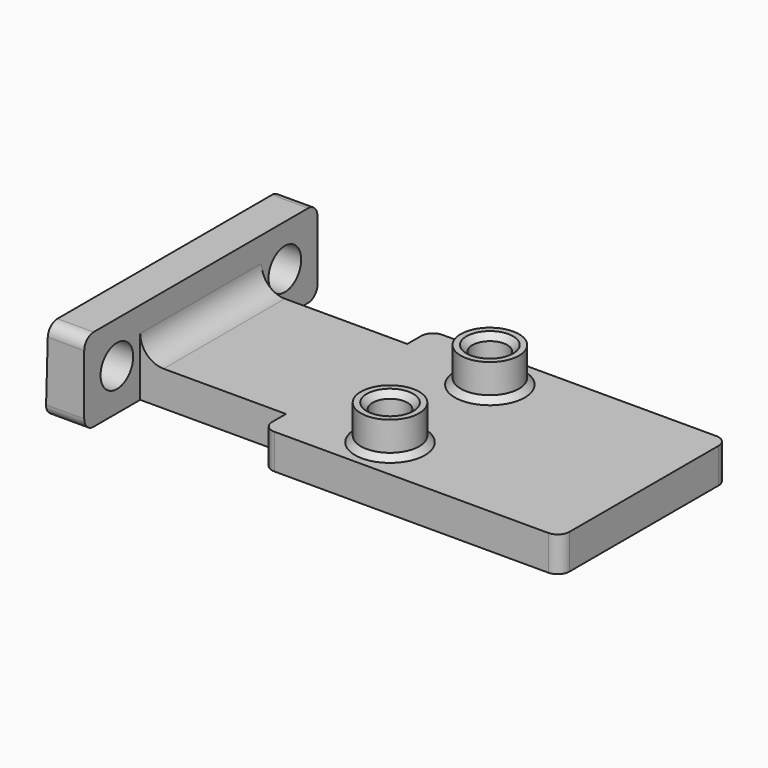
from build123d import *

# Parameters (mm, degrees)
PAD006_DEPTH    = 7.15
SKETCH012_W     = 38
SKETCH012_H     = 18
POCKET004_DEPTH = 4.15
SKETCH013_R     = 2.5
PAD007_DEPTH    = 3
SKETCH014_R     = 1.5
POCKET005_DEPTH = 6.001
SKETCH016_W     = 12.5
SKETCH016_H     = 2.5
POCKET006_DEPTH = 5
SKETCH017_R     = 1.75
POCKET007_DEPTH = 5
CHAMFER_SIZE    = 0.5
CHAMFER001_SIZE = 0.5
POCKET008_DEPTH = 25.001
FILLET_R        = 2
FILLET001_R     = 1
FILLET002_R     = 1


with BuildPart() as part:
    # Sketch011 (on XY_Plane001 of Origin002) → Pad006 (new body)
    with BuildSketch(Plane.XY):
        Polygon((-9.418493, -9), (28.581507, -9), (28.581507, 9), (-9.418493, 9), (-9.418493, 12.5), (-12.718493, 12.5), (-12.718493, -12.5), (-9.418493, -12.5), align=None)
    extrude(amount=PAD006_DEPTH)

    # Sketch012 (on Face10 of Pad006) → Pocket004 (cut)
    with BuildSketch(Plane.XY.offset(7.15)):
        with Locations((9.581507, 0)):
            Rectangle(SKETCH012_W, SKETCH012_H)
    extrude(amount=-POCKET004_DEPTH, mode=Mode.SUBTRACT)

    # Sketch013 (on Face4 of Pocket004) → Pad007 (join)
    with BuildSketch(Plane.XY.offset(3)):
        with Locations((11.081507, 5.35)):
            Circle(SKETCH013_R)
        with Locations((11.081507, -5.35)):
            Circle(SKETCH013_R)
    extrude(amount=PAD007_DEPTH)

    # Sketch014 (on Face13 of Pad007) → Pocket005 (cut, through all)
    with BuildSketch(Plane.XY.offset(6)):
        with Locations((11.081507, 5.35)):
            Circle(SKETCH014_R)
        with Locations((11.081507, -5.35)):
            Circle(SKETCH014_R)
    extrude(amount=-POCKET005_DEPTH, mode=Mode.SUBTRACT)

    # Sketch016 (on Face4 of Pocket005) → Pocket006 (cut)
    with BuildSketch(Plane.XY.offset(3)):
        with Locations((-3.168493, 7.75)):
            Rectangle(SKETCH016_W, SKETCH016_H)
        with Locations((-3.168493, -7.75)):
            Rectangle(SKETCH016_W, SKETCH016_H)
    extrude(amount=-POCKET006_DEPTH, mode=Mode.SUBTRACT)

    # Sketch017 (on Face7 of Pocket006) → Pocket007 (cut)
    with BuildSketch(Plane(origin=(-12.718493, 0, 0), x_dir=(0, -1, 0), z_dir=(-1, 0, 0))):
        with Locations((-9, 3.575)):
            Circle(SKETCH017_R)
        with Locations((9, 3.575)):
            Circle(SKETCH017_R)
    extrude(amount=-POCKET007_DEPTH, mode=Mode.SUBTRACT)

    # Chamfer
    chamfer_edges = [part.edges().sort_by_distance(p)[0] for p in [
        (8.581507, 5.35, 3),
        (8.581507, -5.35, 3),
    ]]
    chamfer(chamfer_edges, length=CHAMFER_SIZE)

    # Chamfer001
    chamfer001_edges = [part.edges().sort_by_distance(p)[0] for p in [
        (9.581507, -5.35, 6),
        (9.581507, 5.35, 6),
    ]]
    chamfer(chamfer001_edges, length=CHAMFER001_SIZE)

    # Sketch018 (on Face8 of Chamfer001) → Pocket008 (cut, through all)
    with BuildSketch(Plane.XZ.offset(12.5)):
        Polygon((-12.718493, 7.15), (-12.718493, 0), (-12.518776, 7.15), align=None)
    extrude(amount=-POCKET008_DEPTH, mode=Mode.SUBTRACT)

    # Fillet
    fillet_edges = [part.edges().sort_by_distance(p)[0] for p in [
        (-9.418493, 0, 3),
    ]]
    fillet(fillet_edges, radius=FILLET_R)

    # Fillet001
    fillet001_edges = [part.edges().sort_by_distance(p)[0] for p in [
        (-10.968635, -12.5, 7.15),
        (-10.968635, 12.5, 7.15),
        (-11.068493, -12.5, 0),
        (-11.068493, 12.5, 0),
    ]]
    fillet(fillet001_edges, radius=FILLET001_R)

    # Fillet002
    fillet002_edges = [part.edges().sort_by_distance(p)[0] for p in [
        (3.081507, -9, 1.5),
        (28.581507, -9, 1.5),
        (28.581507, 9, 1.5),
        (3.081507, 9, 1.5),
    ]]
    fillet(fillet002_edges, radius=FILLET002_R)


solid = part.part
